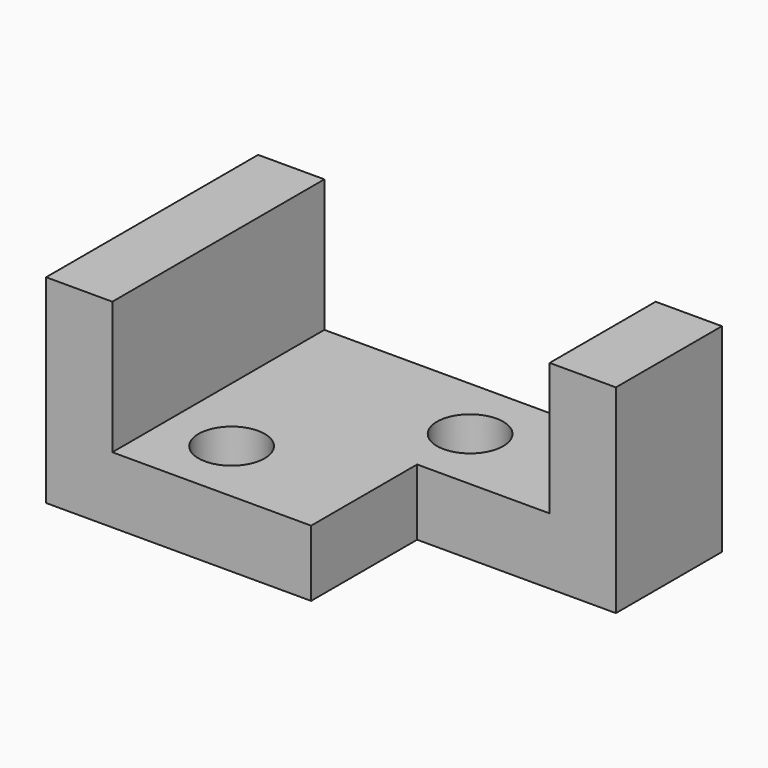
from build123d import *

# Parameters (mm, degrees)
F0_W     = 88.9
F0_H     = 38.1
F1_DEPTH = 50.8
F2_W     = 63.5
F2_H     = 25.4
F3_DEPTH = 50.801
F4_W     = 38.1
F4_H     = 25.4
F5_DEPTH = 38.101
F6_R     = 6.35
F7_DEPTH = 12.701
F8_R     = 6.35
F9_DEPTH = 12.701


with BuildPart() as f1:
    # F0 (on Front) → F1 (new body)
    with BuildSketch(Plane.XZ):
        with Locations((-50.382238, 43.179382)):
            Rectangle(F0_W, F0_H)
    extrude(amount=F1_DEPTH)

    # F2 (on face) → F3 (cut, through all)
    with BuildSketch(Plane.XZ.offset(50.8)):
        with Locations((-50.382238, 49.529382)):
            Rectangle(F2_W, F2_H)
    extrude(amount=-F3_DEPTH, mode=Mode.SUBTRACT)

    # F4 (on face) → F5 (cut, through all)
    with BuildSketch(Plane.XY.offset(62.229382)):
        with Locations((-24.982238, -38.1)):
            Rectangle(F4_W, F4_H)
    extrude(amount=-F5_DEPTH, mode=Mode.SUBTRACT)

    # F6 (on face) → F7 (cut, through all)
    with BuildSketch(Plane.XY.offset(36.829382)):
        with Locations((-44.032238, -12.7)):
            Circle(F6_R)
    extrude(amount=-F7_DEPTH, mode=Mode.SUBTRACT)

    # F8 (on face) → F9 (cut, through all)
    with BuildSketch(Plane.XY.offset(36.829382)):
        with Locations((-69.432238, -38.1)):
            Circle(F8_R)
    extrude(amount=-F9_DEPTH, mode=Mode.SUBTRACT)


solid = f1.part
